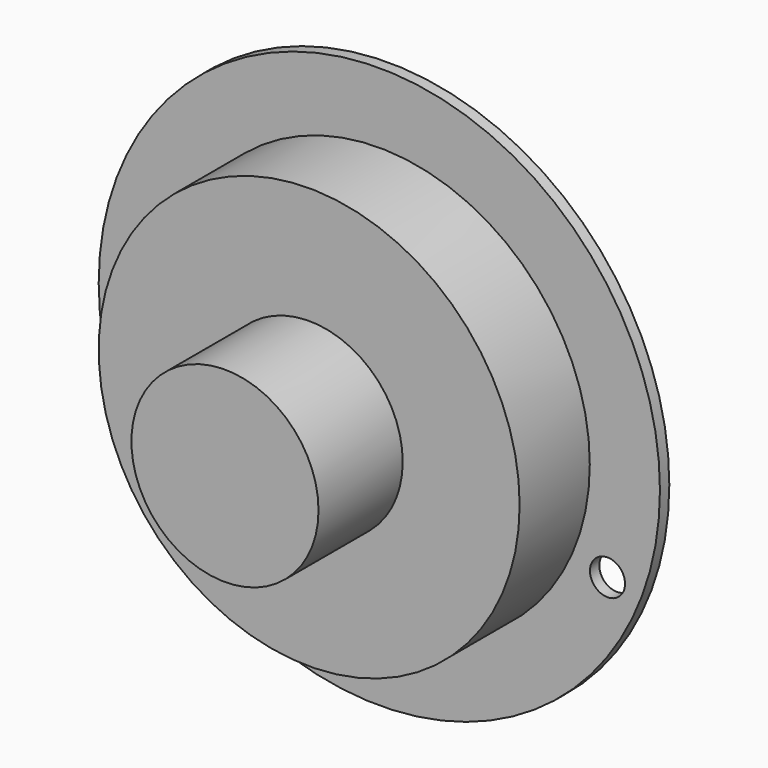
from build123d import *

# Parameters (mm, degrees)
F0_R     = 57.15
F0_R_2   = 25.4
F1_DEPTH = 25.4
F0_R_3   = 76.2
F2_DEPTH = 1.5875
F3_DEPTH = 53.975
F4_R     = 4.7625
F5_DEPTH = 3.176


with BuildPart() as f1:
    # F0 (on Front) → F1 (new body)
    with BuildSketch(Plane.XZ):
        Circle(F0_R)
        Circle(F0_R_2, mode=Mode.SUBTRACT)
    extrude(amount=F1_DEPTH)

    # F0 (on Front) → F2 (join, symmetric)
    with BuildSketch(Plane.XZ):
        Circle(F0_R_3)
        Circle(F0_R, mode=Mode.SUBTRACT)
    extrude(amount=F2_DEPTH, both=True)

    # F0 (on Front) → F3 (join)
    with BuildSketch(Plane.XZ):
        Circle(F0_R_2)
    extrude(amount=F3_DEPTH)

    # F4 (on face) → F5 (cut, through all)
    with BuildSketch(Plane.XZ.offset(1.5875)):
        with Locations((61.95407, -25.41648)):
            Circle(F4_R)
    extrude(amount=-F5_DEPTH, mode=Mode.SUBTRACT)


solid = f1.part
